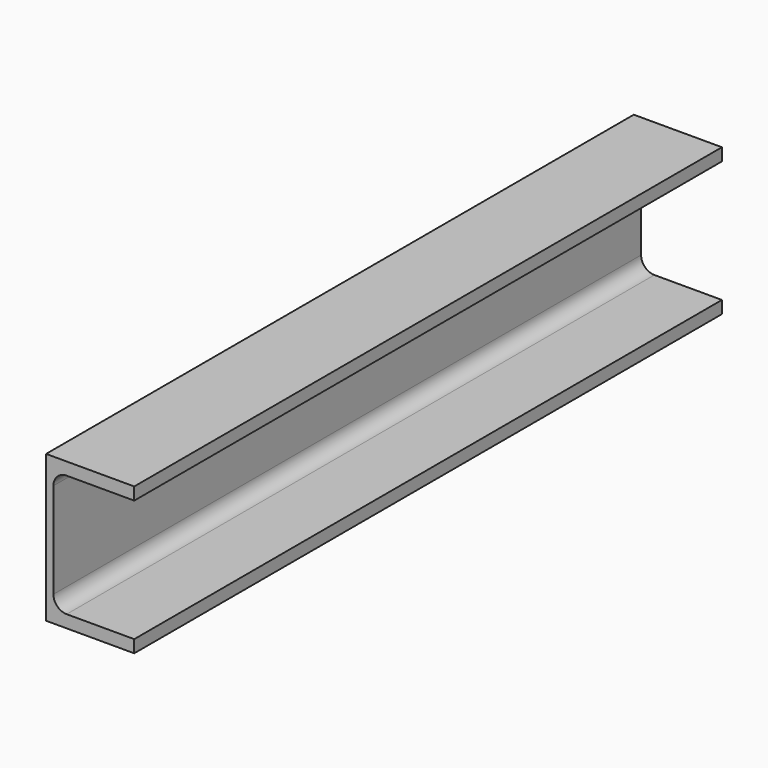
from build123d import *

# Parameters (mm, degrees)
F2_DEPTH = 500


with BuildPart() as f2:
    # F0 (on Front) → F2 (new body)
    with BuildSketch(Plane.XZ):
        with BuildLine():
            Line((0, 50), (0, 0))
            Line((0, 0), (0, -50))
            Line((0, -50), (60, -50))
            Line((60, -50), (60, -41.5))
            Line((60, -41.5), (14, -41.5))
            ThreePointArc((14, -41.5), (7.6360389693, -38.8639610307), (5, -32.5))
            Line((5, -32.5), (5, 0))
            Line((5, 0), (5, 32.5))
            ThreePointArc((5, 32.5), (7.6360389693, 38.8639610307), (14, 41.5))
            Line((14, 41.5), (60, 41.5))
            Line((60, 41.5), (60, 50))
            Line((60, 50), (0, 50))
        make_face()
    extrude(amount=-F2_DEPTH)


solid = f2.part
